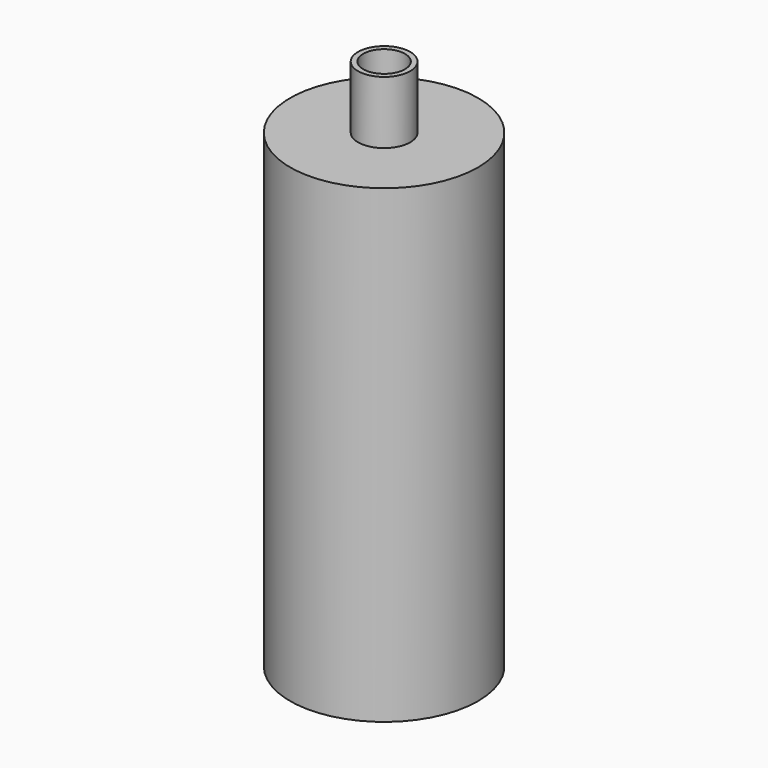
from build123d import *

# Parameters (mm, degrees)
F0_R     = 57.15
F0_R_2   = 12.7
F1_DEPTH = 6.35
F2_DEPTH = 285.75
F3_R     = 15.875
F3_R_2   = 12.7
F4_DEPTH = 38.1


with BuildPart() as f1:
    # F0 (on Top) → F1 (new body)
    with BuildSketch(Plane.XY):
        Circle(F0_R)
        Circle(F0_R_2, mode=Mode.SUBTRACT)
        Circle(F0_R_2)
    extrude(amount=F1_DEPTH)

    # F0 (on Top) → F2 (join)
    with BuildSketch(Plane.XY):
        Circle(F0_R)
        Circle(F0_R_2, mode=Mode.SUBTRACT)
    extrude(amount=F2_DEPTH)

    # F3 (on face) → F4 (join)
    with BuildSketch(Plane.XY.offset(285.75)):
        Circle(F3_R)
        Circle(F3_R_2, mode=Mode.SUBTRACT)
    extrude(amount=F4_DEPTH)


solid = f1.part
